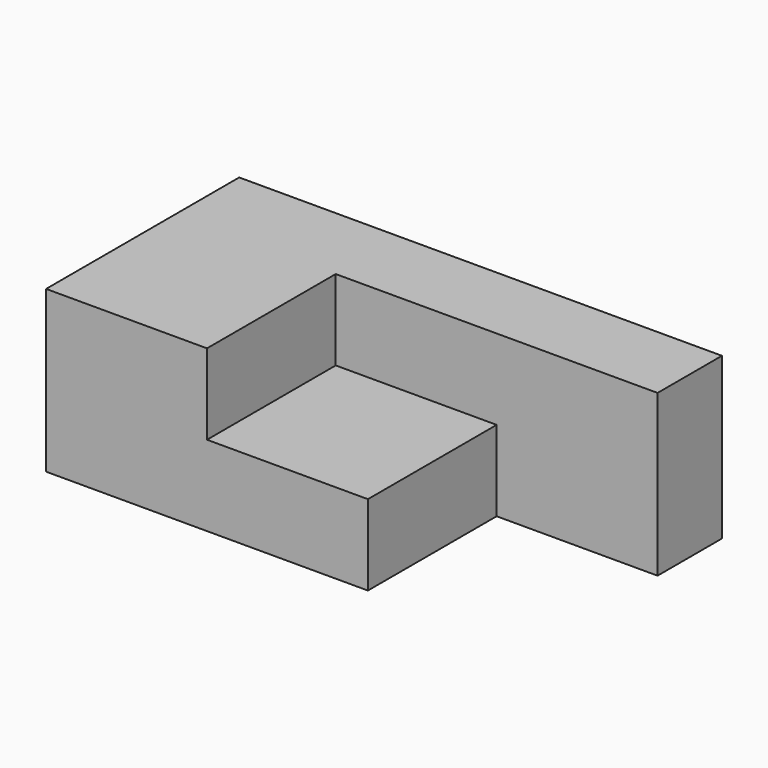
from build123d import *

# Parameters (mm, degrees)
F0_W     = 50.8
F0_H     = 50.8
F1_DEPTH = 25.4
F2_DEPTH = 50.8


with BuildPart() as f1:
    # F0 (on Top) → F1 (new body)
    with BuildSketch(Plane.XY):
        with Locations((-57.413115, -17.596377)):
            Rectangle(F0_W, F0_H)
    extrude(amount=F1_DEPTH)

    # F0 (on Top) → F2 (join)
    with BuildSketch(Plane.XY):
        Polygon((-32.013115, 33.203623), (-133.613115, 33.203623), (-133.613115, -42.996377), (-82.813115, -42.996377), (-82.813115, 7.803623), (-32.013115, 7.803623), (18.786885, 7.803623), (18.786885, 33.203623), align=None)
    extrude(amount=F2_DEPTH)


solid = f1.part
